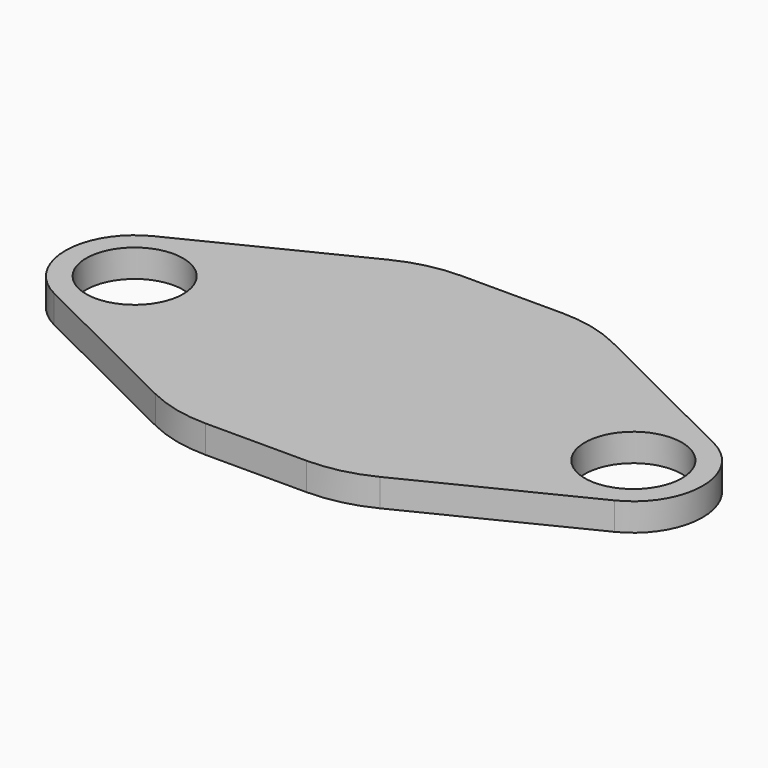
from build123d import *

# Parameters (mm, degrees)
F4_R     = 1.75
F5_DEPTH = 1


with BuildPart() as f5:
    # F4 (on offset) → F5 (new body, through all)
    with BuildSketch(Plane.XY.offset(1)):
        with BuildLine():
            Line((-4.0505398426, 5.2484339749), (-10.1117136696, 2.2392169874))
            ThreePointArc((-10.1117136696, 2.2392169874), (-11.5, 0), (-10.1117136696, -2.2392169874))
            Line((-10.1117136696, -2.2392169874), (-4.0505398426, -5.2484339749))
            ThreePointArc((-4.0505398426, -5.2484339749), (-2.9690035065, -5.6378624608), (-1.8271125035, -5.77))
            Line((-1.8271125035, -5.77), (0, -5.77))
            Line((0, -5.77), (1.8271125035, -5.77))
            ThreePointArc((1.8271125035, -5.77), (2.9690035065, -5.6378624608), (4.0505398426, -5.2484339749))
            Line((4.0505398426, -5.2484339749), (10.1117136696, -2.2392169874))
            ThreePointArc((10.1117136696, -2.2392169874), (11.5, 0), (10.1117136696, 2.2392169874))
            Line((10.1117136696, 2.2392169874), (4.0505398426, 5.2484339749))
            ThreePointArc((4.0505398426, 5.2484339749), (2.9690035065, 5.6378624608), (1.8271125035, 5.77))
            Line((1.8271125035, 5.77), (0, 5.77))
            Line((0, 5.77), (-1.8271125035, 5.77))
            ThreePointArc((-1.8271125035, 5.77), (-2.9690035065, 5.6378624608), (-4.0505398426, 5.2484339749))
        make_face()
        with Locations((-9, 0)):
            Circle(F4_R, mode=Mode.SUBTRACT)
        with Locations((9, 0)):
            Circle(F4_R, mode=Mode.SUBTRACT)
    extrude(amount=-F5_DEPTH)


solid = f5.part
